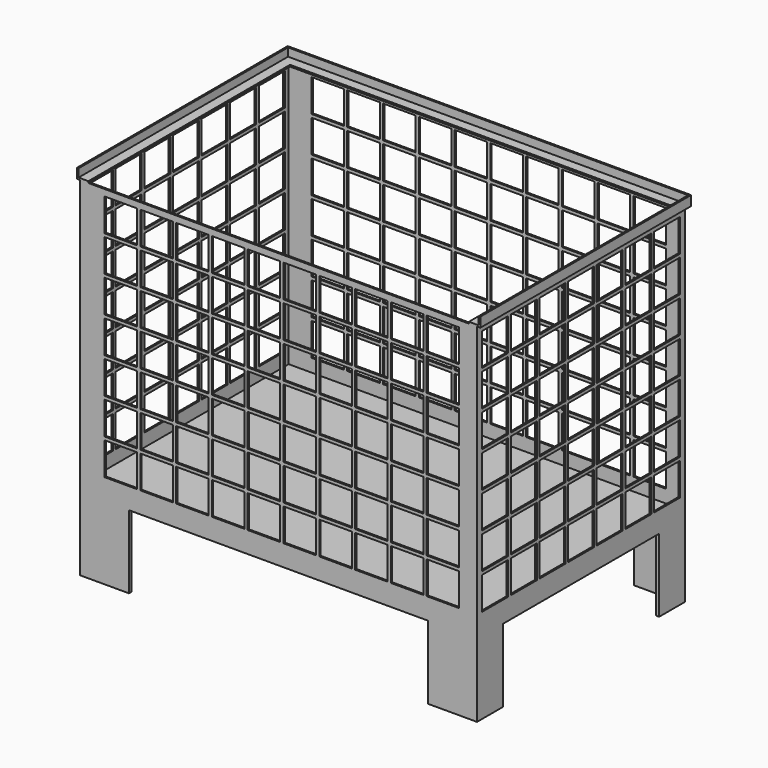
from build123d import *

# Parameters (mm, degrees)
F0_W      = 1220
F0_H      = 800
F1_DEPTH  = 25
F3_DEPTH  = 225
F4_W      = 1220
F4_H      = 800
F4_W_2    = 1210.0000572205
F4_H_2    = 790.0000572205
F5_DEPTH  = 820
F9_W      = 100
F9_H      = 100
F10_DEPTH = 1230.001
F11_W     = 100
F11_H     = 100
F12_DEPTH = 800.001


with BuildPart() as f1:
    # F0 (on Top) → F1 (new body)
    with BuildSketch(Plane.XY):
        Rectangle(F0_W, F0_H)
    extrude(amount=F1_DEPTH)

    # F2 (on face) → F3 (join)
    with BuildSketch(Plane(origin=(0, 0, 0), x_dir=(1, 0, 0), z_dir=(0, 0, -1))):
        Polygon((-460, 400), (-610, 400), (-610, 300), (-600, 300), (-600, 390), (-460, 390), align=None)
        Polygon((460, 400), (460, 390), (600, 390), (600, 300), (610, 300), (610, 400), align=None)
        Polygon((-600, -300), (-610, -300), (-610, -400), (-460, -400), (-460, -390), (-600, -390), align=None)
        Polygon((600, -390), (460, -390), (460, -400), (610, -400), (610, -300), (600, -300), align=None)
    extrude(amount=F3_DEPTH)

    # F4 (on face) → F5 (join)
    with BuildSketch(Plane.XY.offset(25)):
        Rectangle(F4_W, F4_H)
        Rectangle(F4_W_2, F4_H_2, mode=Mode.SUBTRACT)
    extrude(amount=F5_DEPTH)

    # F8: sweep along a path in F7
    with BuildLine(Plane.XY.offset(845)) as f8_path:
        Line((-610, -400), (-610, 400))
        Line((-610, 400), (610, 400))
        Line((610, 400), (610, -400))
    # F6 (on face) → F8 (sweep)
    with BuildSketch(Plane.XZ.offset(400)):
        Polygon((-610, 845), (-585, 845), (-585, 850), (-615, 850), (-615, 875), (-620, 875), (-620, 845), align=None)
    sweep(path=f8_path.line, transition=Transition.RIGHT)

    # F9 (on face) → F10 (cut, through all)
    with BuildSketch(Plane.YZ.offset(610)):
        with Locations((-330, 775)):
            Rectangle(F9_W, F9_H)
        with Locations((-330, 665)):
            Rectangle(F9_W, F9_H)
        with Locations((-330, 555)):
            Rectangle(F9_W, F9_H)
        with Locations((-330, 445)):
            Rectangle(F9_W, F9_H)
        with Locations((-330, 335)):
            Rectangle(F9_W, F9_H)
        with Locations((-330, 225)):
            Rectangle(F9_W, F9_H)
        with Locations((-330, 115)):
            Rectangle(F9_W, F9_H)
        with Locations((-220, 775)):
            Rectangle(F9_W, F9_H)
        with Locations((-220, 665)):
            Rectangle(F9_W, F9_H)
        with Locations((-220, 555)):
            Rectangle(F9_W, F9_H)
        with Locations((-220, 445)):
            Rectangle(F9_W, F9_H)
        with Locations((-220, 335)):
            Rectangle(F9_W, F9_H)
        with Locations((-220, 225)):
            Rectangle(F9_W, F9_H)
        with Locations((-220, 115)):
            Rectangle(F9_W, F9_H)
        with Locations((-110, 775)):
            Rectangle(F9_W, F9_H)
        with Locations((-110, 665)):
            Rectangle(F9_W, F9_H)
        with Locations((-110, 555)):
            Rectangle(F9_W, F9_H)
        with Locations((-110, 445)):
            Rectangle(F9_W, F9_H)
        with Locations((-110, 335)):
            Rectangle(F9_W, F9_H)
        with Locations((-110, 225)):
            Rectangle(F9_W, F9_H)
        with Locations((-110, 115)):
            Rectangle(F9_W, F9_H)
        with Locations((0, 775)):
            Rectangle(F9_W, F9_H)
        with Locations((0, 665)):
            Rectangle(F9_W, F9_H)
        with Locations((0, 555)):
            Rectangle(F9_W, F9_H)
        with Locations((0, 445)):
            Rectangle(F9_W, F9_H)
        with Locations((0, 335)):
            Rectangle(F9_W, F9_H)
        with Locations((0, 225)):
            Rectangle(F9_W, F9_H)
        with Locations((0, 115)):
            Rectangle(F9_W, F9_H)
        with Locations((110, 775)):
            Rectangle(F9_W, F9_H)
        with Locations((110, 665)):
            Rectangle(F9_W, F9_H)
        with Locations((110, 555)):
            Rectangle(F9_W, F9_H)
        with Locations((110, 445)):
            Rectangle(F9_W, F9_H)
        with Locations((110, 335)):
            Rectangle(F9_W, F9_H)
        with Locations((110, 225)):
            Rectangle(F9_W, F9_H)
        with Locations((110, 115)):
            Rectangle(F9_W, F9_H)
        with Locations((220, 775)):
            Rectangle(F9_W, F9_H)
        with Locations((220, 665)):
            Rectangle(F9_W, F9_H)
        with Locations((220, 555)):
            Rectangle(F9_W, F9_H)
        with Locations((220, 445)):
            Rectangle(F9_W, F9_H)
        with Locations((220, 335)):
            Rectangle(F9_W, F9_H)
        with Locations((220, 225)):
            Rectangle(F9_W, F9_H)
        with Locations((220, 115)):
            Rectangle(F9_W, F9_H)
        with Locations((330, 775)):
            Rectangle(F9_W, F9_H)
        with Locations((330, 665)):
            Rectangle(F9_W, F9_H)
        with Locations((330, 555)):
            Rectangle(F9_W, F9_H)
        with Locations((330, 445)):
            Rectangle(F9_W, F9_H)
        with Locations((330, 335)):
            Rectangle(F9_W, F9_H)
        with Locations((330, 225)):
            Rectangle(F9_W, F9_H)
        with Locations((330, 115)):
            Rectangle(F9_W, F9_H)
    extrude(amount=-F10_DEPTH, mode=Mode.SUBTRACT)

    # F11 (on face) → F12 (cut, through all)
    with BuildSketch(Plane(origin=(0, 400, 0), x_dir=(-1, 0, 0), z_dir=(0, 1, 0))):
        with Locations((-505, 775)):
            Rectangle(F11_W, F11_H)
        with Locations((-505, 665)):
            Rectangle(F11_W, F11_H)
        with Locations((-505, 555)):
            Rectangle(F11_W, F11_H)
        with Locations((-505, 445)):
            Rectangle(F11_W, F11_H)
        with Locations((-505, 335)):
            Rectangle(F11_W, F11_H)
        with Locations((-505, 225)):
            Rectangle(F11_W, F11_H)
        with Locations((-505, 115)):
            Rectangle(F11_W, F11_H)
        with Locations((-395, 775)):
            Rectangle(F11_W, F11_H)
        with Locations((-395, 665)):
            Rectangle(F11_W, F11_H)
        with Locations((-395, 555)):
            Rectangle(F11_W, F11_H)
        with Locations((-395, 445)):
            Rectangle(F11_W, F11_H)
        with Locations((-395, 335)):
            Rectangle(F11_W, F11_H)
        with Locations((-395, 225)):
            Rectangle(F11_W, F11_H)
        with Locations((-395, 115)):
            Rectangle(F11_W, F11_H)
        with Locations((-285, 775)):
            Rectangle(F11_W, F11_H)
        with Locations((-285, 665)):
            Rectangle(F11_W, F11_H)
        with Locations((-285, 555)):
            Rectangle(F11_W, F11_H)
        with Locations((-285, 445)):
            Rectangle(F11_W, F11_H)
        with Locations((-285, 335)):
            Rectangle(F11_W, F11_H)
        with Locations((-285, 225)):
            Rectangle(F11_W, F11_H)
        with Locations((-285, 115)):
            Rectangle(F11_W, F11_H)
        with Locations((-175, 775)):
            Rectangle(F11_W, F11_H)
        with Locations((-175, 665)):
            Rectangle(F11_W, F11_H)
        with Locations((-175, 555)):
            Rectangle(F11_W, F11_H)
        with Locations((-175, 445)):
            Rectangle(F11_W, F11_H)
        with Locations((-175, 335)):
            Rectangle(F11_W, F11_H)
        with Locations((-175, 225)):
            Rectangle(F11_W, F11_H)
        with Locations((-175, 115)):
            Rectangle(F11_W, F11_H)
        with Locations((-65, 775)):
            Rectangle(F11_W, F11_H)
        with Locations((-65, 665)):
            Rectangle(F11_W, F11_H)
        with Locations((-65, 555)):
            Rectangle(F11_W, F11_H)
        with Locations((-65, 445)):
            Rectangle(F11_W, F11_H)
        with Locations((-65, 335)):
            Rectangle(F11_W, F11_H)
        with Locations((-65, 225)):
            Rectangle(F11_W, F11_H)
        with Locations((-65, 115)):
            Rectangle(F11_W, F11_H)
        with Locations((45, 775)):
            Rectangle(F11_W, F11_H)
        with Locations((45, 665)):
            Rectangle(F11_W, F11_H)
        with Locations((45, 555)):
            Rectangle(F11_W, F11_H)
        with Locations((45, 445)):
            Rectangle(F11_W, F11_H)
        with Locations((45, 335)):
            Rectangle(F11_W, F11_H)
        with Locations((45, 225)):
            Rectangle(F11_W, F11_H)
        with Locations((45, 115)):
            Rectangle(F11_W, F11_H)
        with Locations((155, 775)):
            Rectangle(F11_W, F11_H)
        with Locations((155, 665)):
            Rectangle(F11_W, F11_H)
        with Locations((155, 555)):
            Rectangle(F11_W, F11_H)
        with Locations((155, 445)):
            Rectangle(F11_W, F11_H)
        with Locations((155, 335)):
            Rectangle(F11_W, F11_H)
        with Locations((155, 225)):
            Rectangle(F11_W, F11_H)
        with Locations((155, 115)):
            Rectangle(F11_W, F11_H)
        with Locations((265, 775)):
            Rectangle(F11_W, F11_H)
        with Locations((265, 665)):
            Rectangle(F11_W, F11_H)
        with Locations((265, 555)):
            Rectangle(F11_W, F11_H)
        with Locations((265, 445)):
            Rectangle(F11_W, F11_H)
        with Locations((265, 335)):
            Rectangle(F11_W, F11_H)
        with Locations((265, 225)):
            Rectangle(F11_W, F11_H)
        with Locations((265, 115)):
            Rectangle(F11_W, F11_H)
        with Locations((375, 775)):
            Rectangle(F11_W, F11_H)
        with Locations((375, 665)):
            Rectangle(F11_W, F11_H)
        with Locations((375, 555)):
            Rectangle(F11_W, F11_H)
        with Locations((375, 445)):
            Rectangle(F11_W, F11_H)
        with Locations((375, 335)):
            Rectangle(F11_W, F11_H)
        with Locations((375, 225)):
            Rectangle(F11_W, F11_H)
        with Locations((375, 115)):
            Rectangle(F11_W, F11_H)
        with Locations((485, 775)):
            Rectangle(F11_W, F11_H)
        with Locations((485, 665)):
            Rectangle(F11_W, F11_H)
        with Locations((485, 555)):
            Rectangle(F11_W, F11_H)
        with Locations((485, 445)):
            Rectangle(F11_W, F11_H)
        with Locations((485, 335)):
            Rectangle(F11_W, F11_H)
        with Locations((485, 225)):
            Rectangle(F11_W, F11_H)
        with Locations((485, 115)):
            Rectangle(F11_W, F11_H)
    extrude(amount=-F12_DEPTH, mode=Mode.SUBTRACT)


solid = f1.part
